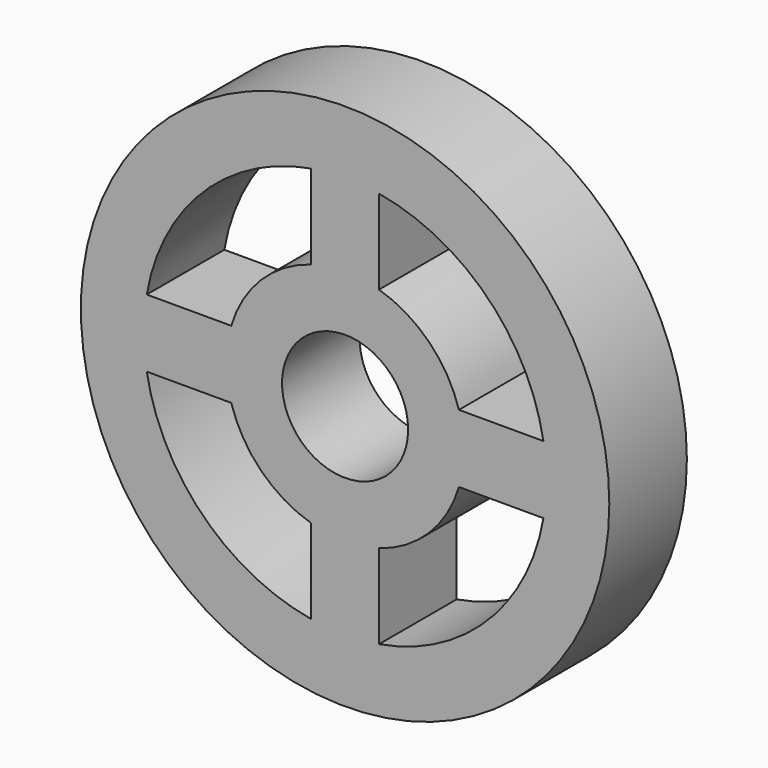
from build123d import *

# Parameters (mm, degrees)
F0_R     = 5.45
F0_R_2   = 1.3
F1_DEPTH = 2


with BuildPart() as f1:
    # F0 (on Front) → F1 (new body)
    with BuildSketch(Plane.XZ):
        Circle(F0_R)
        with BuildLine():
            ThreePointArc((4.090538, 0.7), (4.135108, 0.35126), (4.15, 0))
            ThreePointArc((4.15, 0), (4.135108, -0.35126), (4.090538, -0.7))
            ThreePointArc((4.090538, -0.7), (2.934493, -2.934493), (0.7, -4.090538))
            ThreePointArc((0.7, -4.090538), (0.35126, -4.135108), (0, -4.15))
            ThreePointArc((0, -4.15), (-0.35126, -4.135108), (-0.7, -4.090538))
            ThreePointArc((-0.7, -4.090538), (-2.934493, -2.934493), (-4.090538, -0.7))
            ThreePointArc((-4.090538, -0.7), (-4.135108, -0.35126), (-4.15, 0))
            ThreePointArc((-4.15, 0), (-4.135108, 0.35126), (-4.090538, 0.7))
            ThreePointArc((-4.090538, 0.7), (-2.934493, 2.934493), (-0.7, 4.090538))
            ThreePointArc((-0.7, 4.090538), (-0.35126, 4.135108), (0, 4.15))
            ThreePointArc((0, 4.15), (0.35126, 4.135108), (0.7, 4.090538))
            ThreePointArc((0.7, 4.090538), (2.934493, 2.934493), (4.090538, 0.7))
        make_face(mode=Mode.SUBTRACT)
        with BuildLine():
            ThreePointArc((2.347871, -0.7), (2.424333, -0.353705), (2.45, 0))
            ThreePointArc((2.45, 0), (2.424333, 0.353705), (2.347871, 0.7))
            ThreePointArc((2.347871, 0.7), (1.732412, 1.732412), (0.7, 2.347871))
            ThreePointArc((0.7, 2.347871), (0.353705, 2.424333), (0, 2.45))
            ThreePointArc((0, 2.45), (-0.353705, 2.424333), (-0.7, 2.347871))
            ThreePointArc((-0.7, 2.347871), (-1.732412, 1.732412), (-2.347871, 0.7))
            ThreePointArc((-2.347871, 0.7), (-2.424333, 0.353705), (-2.45, 0))
            ThreePointArc((-2.45, 0), (-2.424333, -0.353705), (-2.347871, -0.7))
            ThreePointArc((-2.347871, -0.7), (-1.732412, -1.732412), (-0.7, -2.347871))
            ThreePointArc((-0.7, -2.347871), (-0.353705, -2.424333), (0, -2.45))
            ThreePointArc((0, -2.45), (0.353705, -2.424333), (0.7, -2.347871))
            ThreePointArc((0.7, -2.347871), (1.732412, -1.732412), (2.347871, -0.7))
        make_face()
        Circle(F0_R_2, mode=Mode.SUBTRACT)
        with BuildLine():
            Line((-2.347871, 0.7), (-4.090538, 0.7))
            ThreePointArc((-4.090538, 0.7), (-4.135108, 0.35126), (-4.15, 0))
            Line((-4.15, 0), (-2.45, 0))
            ThreePointArc((-2.45, 0), (-2.424333, 0.353705), (-2.347871, 0.7))
        make_face()
        with BuildLine():
            ThreePointArc((-4.15, 0), (-4.135108, -0.35126), (-4.090538, -0.7))
            Line((-4.090538, -0.7), (-2.347871, -0.7))
            ThreePointArc((-2.347871, -0.7), (-2.424333, -0.353705), (-2.45, 0))
            Line((-2.45, 0), (-4.15, 0))
        make_face()
        with BuildLine():
            ThreePointArc((-0.7, -4.090538), (-0.35126, -4.135108), (0, -4.15))
            Line((0, -4.15), (0, -2.45))
            ThreePointArc((0, -2.45), (-0.353705, -2.424333), (-0.7, -2.347871))
            Line((-0.7, -2.347871), (-0.7, -4.090538))
        make_face()
        with BuildLine():
            ThreePointArc((0, -4.15), (0.35126, -4.135108), (0.7, -4.090538))
            Line((0.7, -4.090538), (0.7, -2.347871))
            ThreePointArc((0.7, -2.347871), (0.353705, -2.424333), (0, -2.45))
            Line((0, -2.45), (0, -4.15))
        make_face()
        with BuildLine():
            ThreePointArc((4.090538, -0.7), (4.135108, -0.35126), (4.15, 0))
            Line((4.15, 0), (2.45, 0))
            ThreePointArc((2.45, 0), (2.424333, -0.353705), (2.347871, -0.7))
            Line((2.347871, -0.7), (4.090538, -0.7))
        make_face()
        with BuildLine():
            Line((0, 2.45), (0, 4.15))
            ThreePointArc((0, 4.15), (-0.35126, 4.135108), (-0.7, 4.090538))
            Line((-0.7, 4.090538), (-0.7, 2.347871))
            ThreePointArc((-0.7, 2.347871), (-0.353705, 2.424333), (0, 2.45))
        make_face()
        with BuildLine():
            Line((0.7, 2.347871), (0.7, 4.090538))
            ThreePointArc((0.7, 4.090538), (0.35126, 4.135108), (0, 4.15))
            Line((0, 4.15), (0, 2.45))
            ThreePointArc((0, 2.45), (0.353705, 2.424333), (0.7, 2.347871))
        make_face()
        with BuildLine():
            Line((2.45, 0), (4.15, 0))
            ThreePointArc((4.15, 0), (4.135108, 0.35126), (4.090538, 0.7))
            Line((4.090538, 0.7), (2.347871, 0.7))
            ThreePointArc((2.347871, 0.7), (2.424333, 0.353705), (2.45, 0))
        make_face()
    extrude(amount=F1_DEPTH)


solid = f1.part
